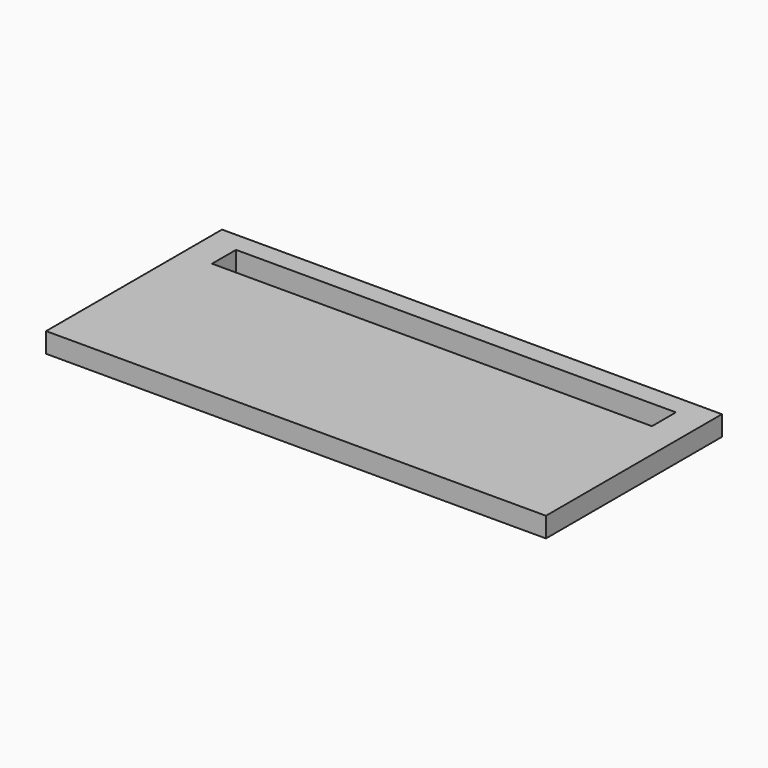
from build123d import *

# Parameters (mm, degrees)
BOX151_W     = 22
BOX151_H     = 1.5
BOX151_DEPTH = 2
BOX149_W     = 25
BOX149_H     = 11
BOX149_DEPTH = 1


with BuildPart() as longledhole011:
    # Box151 → Box151 (new body)
    with BuildSketch(Plane(origin=(1.5, 8.5, 0), x_dir=(1, 0, 0), z_dir=(0, 0, 1))):
        with Locations((11, 0.75)):
            Rectangle(BOX151_W, BOX151_H)
    extrude(amount=BOX151_DEPTH)


with BuildPart() as cut028:
    # Box149 → Box149 (new body)
    with BuildSketch(Plane.XY):
        with Locations((12.5, 5.5)):
            Rectangle(BOX149_W, BOX149_H)
    extrude(amount=BOX149_DEPTH)

    # Cut028: cut LongLedHole011
    add(longledhole011.part, mode=Mode.SUBTRACT)


solid = cut028.part
